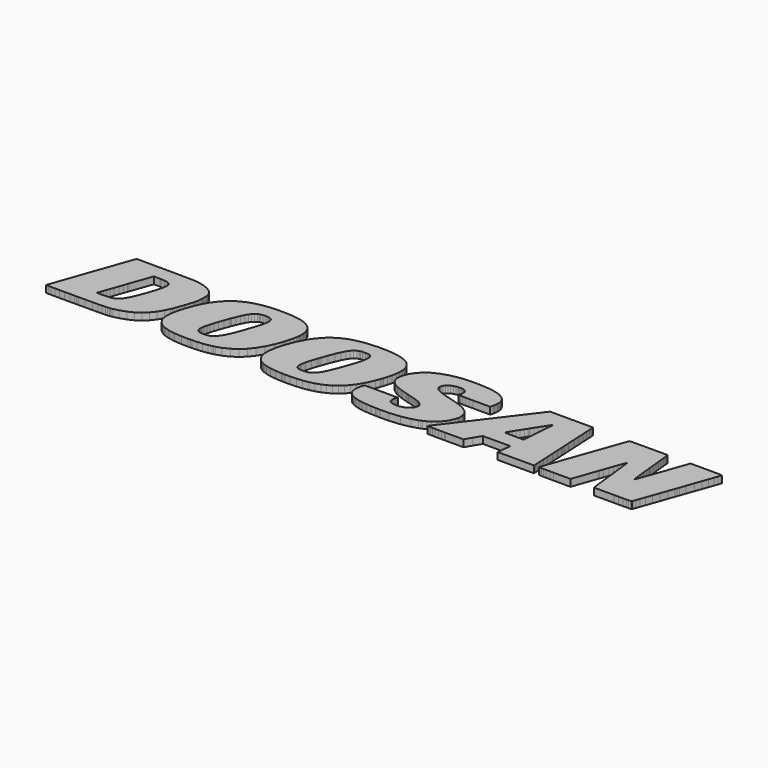
from build123d import *

# Parameters (mm, degrees)
F1_DEPTH = 6.35


with BuildPart() as f1:
    # F0 (on Top) → F1 (new body)
    with BuildSketch(Plane.XY):
        Polygon((-101.053138, 34.34461), (-105.606088, 35.721544), (-110.948978, 36.652962), (-111.431324, 36.712144), (-112.883696, 36.837874), (-115.34648, 36.992052), (-118.16715, 37.11194), (-121.175272, 37.19195), (-124.202952, 37.229034), (-127.077724, 37.219382), (-129.631186, 37.15893), (-131.178808, 37.084508), (-131.69265, 37.041582), (-133.668516, 36.888674), (-139.570968, 36.092384), (-146.629374, 34.511488), (-152.928066, 32.264096), (-158.525718, 29.312362), (-163.485322, 25.617678), (-167.863266, 21.143468), (-171.722034, 15.850362), (-174.355252, 11.280902), (-175.118522, 9.70153), (-175.667162, 8.572754), (-177.19548, 5.126228), (-178.989736, 0.553974), (-180.48478, -3.935476), (-181.658768, -8.26262), (-182.495444, -12.348464), (-182.973472, -16.114776), (-183.072786, -19.479895), (-182.911496, -21.655837), (-182.775352, -22.365513), (-182.59044, -23.342575), (-181.58333, -26.188213), (-179.534058, -29.414191), (-176.586388, -32.062776), (-172.6946, -34.153272), (-167.813736, -35.700792), (-161.900616, -36.72746), (-154.90698, -37.24971), (-148.820378, -37.333784), (-146.791934, -37.288292), (-145.329656, -37.252504), (-140.942314, -37.065052), (-136.160256, -36.670945), (-131.914646, -36.037037), (-128.724406, -35.365944), (-127.670052, -35.101352), (-126.10338, -34.711361), (-121.499122, -33.152817), (-115.923822, -30.508372), (-110.905036, -27.126641), (-106.402886, -22.965004), (-102.379018, -17.984724), (-98.7933, -12.141962), (-95.607378, -5.396484), (-93.41485, 0.347218), (-92.780866, 2.293112), (-92.461334, 3.292094), (-91.573858, 6.310122), (-90.682318, 9.873488), (-90.082878, 13.113512), (-89.80043, 15.395702), (-89.746328, 16.157702), (-89.669366, 17.21866), (-89.776808, 20.425156), (-90.534744, 24.18334), (-92.031312, 27.44216), (-94.276164, 30.216094), (-97.280222, 32.513524), align=None)
        Polygon((-133.019546, 23.873206), (-132.574538, 24.024844), (-132.026152, 24.210772), (-130.295396, 24.520906), (-127.67564, 24.68626), (-125.169168, 24.520906), (-123.679458, 24.223218), (-123.226068, 24.024844), (-122.874786, 23.863808), (-121.889266, 23.225506), (-121.047256, 22.204172), (-120.617234, 20.805902), (-120.504458, 19.355816), (-120.510046, 18.873724), (-120.523762, 18.278602), (-120.7262, 16.49095), (-121.333768, 13.569696), (-122.438922, 9.70153), (-123.704096, 5.78104), (-124.142246, 4.480052), (-124.61494, 3.081274), (-126.061978, -1.106678), (-127.769366, -5.837428), (-129.304542, -9.80059), (-130.710178, -13.083032), (-132.023358, -15.775686), (-133.287008, -17.968214), (-134.539736, -19.747281), (-135.480806, -20.857947), (-135.819896, -21.202472), (-136.296908, -21.683396), (-137.851134, -23.003561), (-139.846558, -24.115649), (-142.165578, -24.677878), (-144.418812, -24.834952), (-145.168366, -24.834952), (-146.021552, -24.829465), (-148.577808, -24.541455), (-150.74265, -23.596117), (-151.877014, -21.823959), (-152.193752, -19.741744), (-152.188164, -19.049975), (-152.185624, -18.636488), (-152.077928, -17.399), (-151.76373, -15.410688), (-151.2316, -13.045948), (-150.473918, -10.264902), (-149.476206, -7.026656), (-148.225002, -3.293618), (-146.711924, 0.977138), (-145.375122, 4.612132), (-144.921986, 5.820918), (-144.523714, 6.88213), (-143.27378, 10.040366), (-141.73835, 13.581888), (-140.275056, 16.50746), (-138.841734, 18.879312), (-137.396474, 20.754594), (-135.898636, 22.197568), (-134.305294, 23.268178), align=None, mode=Mode.SUBTRACT)
        Polygon((-23.91283, 36.963096), (-25.01265, 37.041582), (-27.54249, 37.225224), (-35.16503, 37.307774), (-44.874688, 36.654232), (-53.737002, 35.127438), (-59.506866, 33.512506), (-61.347858, 32.77235), (-62.44209, 32.335724), (-65.622678, 30.770322), (-69.588634, 28.295346), (-73.259696, 25.33269), (-76.65085, 21.86813), (-79.77378, 17.886934), (-82.64144, 13.372338), (-85.2678, 8.30834), (-87.11438, 4.106672), (-87.665814, 2.681732), (-88.174068, 1.36144), (-89.563194, -2.654046), (-90.992452, -7.59841), (-91.952572, -12.141962), (-92.44203, -16.274542), (-92.461334, -19.9898), (-92.007944, -23.277805), (-91.079066, -26.130326), (-90.09253, -27.985161), (-89.676224, -28.539135), (-89.36228, -28.953917), (-88.324436, -30.133544), (-86.841584, -31.475756), (-85.127338, -32.647077), (-83.603084, -33.479384), (-83.07959, -33.726095), (-82.126074, -34.167064), (-79.144114, -35.239147), (-74.684636, -36.286491), (-69.219318, -36.943817), (-64.006222, -37.241455), (-62.265814, -37.288292), (-60.730384, -37.3269), (-56.119522, -37.32276), (-50.380392, -37.088496), (-45.030644, -36.573104), (-40.053006, -35.766934), (-35.42919, -34.654896), (-31.13913, -33.227239), (-27.16657, -31.471591), (-23.49119, -29.37698), (-20.10029, -26.93096), (-16.96847, -24.121161), (-14.08049, -20.936534), (-11.42111, -17.36471), (-8.97001, -13.39596), (-6.70941, -9.015222), (-4.61899, -4.21259), (-3.13309, -0.296418), (-2.68097, 1.02235), (-2.30759, 2.116582), (-1.28397, 5.431028), (-0.23241, 9.50849), (0.46863, 13.262356), (0.81407, 16.702024), (0.79629, 19.839432), (0.41021, 22.683978), (-0.34925, 25.243028), (-1.49225, 27.526234), (-3.01879, 29.54528), (-4.93649, 31.307532), (-7.25551, 32.823658), (-9.97331, 34.103818), (-13.10513, 35.155124), (-16.65097, 35.99053), (-20.61591, 36.615878), align=None)
        Polygon((-42.009822, 24.05253), (-41.451784, 24.23541), (-40.955722, 24.39289), (-39.368222, 24.55799), (-36.63315, 24.588216), (-33.99663, 24.355552), (-32.57931, 24.077168), (-32.20847, 23.882858), (-31.86811, 23.703534), (-30.98927, 22.894544), (-30.25013, 21.388578), (-30.00883, 19.249644), (-30.28823, 16.364204), (-31.10103, 12.61745), (-32.46755, 7.894828), (-34.40811, 2.080768), (-36.29025, -3.188716), (-36.93541, -4.938776), (-37.596064, -6.713728), (-39.734744, -11.979148), (-42.223436, -17.082262), (-44.600622, -20.585125), (-46.378368, -22.365513), (-47.060358, -22.824415), (-47.453296, -23.087609), (-48.698912, -23.772495), (-50.368962, -24.380241), (-52.290218, -24.70404), (-54.084474, -24.800535), (-54.680866, -24.800535), (-55.39359, -24.803278), (-57.532016, -24.596598), (-59.635136, -23.8855), (-61.007752, -22.548825), (-61.662056, -20.473492), (-61.613796, -17.54378), (-60.877958, -13.642594), (-59.466734, -8.656828), (-57.937146, -4.007104), (-57.396888, -2.469388), (-56.79059, -0.742696), (-54.920896, 4.419346), (-52.773834, 9.974072), (-50.858166, 14.35481), (-49.081944, 17.72285), (-47.347124, 20.236434), (-45.560996, 22.052788), (-43.627802, 23.333202), align=None, mode=Mode.SUBTRACT)
        Polygon((68.18757, 36.367974), (67.06235, 36.5125), (66.52387, 36.585652), (64.90081, 36.745418), (62.25159, 36.938458), (59.27725, 37.087302), (56.14035, 37.187632), (53.00091, 37.237416), (50.02149, 37.231828), (47.36465, 37.168328), (45.73143, 37.087302), (45.19041, 37.041582), (43.23207, 36.879022), (37.38753, 36.078668), (30.41015, 34.564066), (24.26081, 32.498284), (18.94459, 29.88564), (14.45895, 26.724356), (10.81151, 23.01748), (7.99973, 18.766028), (6.40969, 15.205456), (6.03377, 13.970762), (5.77723, 13.15339), (5.33781, 10.597134), (5.41401, 7.492238), (6.25983, 4.69773), (7.38759, 2.80035), (7.86765, 2.257044), (8.47217, 1.568196), (10.63371, -0.19812), (14.52499, -2.389378), (19.90979, -4.488434), (25.33777, -6.166612), (27.16403, -6.666738), (28.10891, -6.924548), (30.94609, -7.718298), (34.01695, -8.625078), (36.48075, -9.424416), (38.42893, -10.158984), (39.96055, -10.867136), (41.16705, -11.587988), (42.15003, -12.362434), (42.80027, -13.001752), (43.00347, -13.229082), (43.42511, -13.714222), (44.06265, -15.722092), (43.50893, -18.497296), (41.51757, -21.161146), (39.14775, -22.912603), (38.27653, -23.319156), (37.76091, -23.558906), (36.14801, -24.121161), (33.90519, -24.632387), (31.64967, -24.859767), (29.48305, -24.812904), (27.50185, -24.498732), (25.81275, -23.928222), (24.51227, -23.108285), (23.83917, -22.343466), (23.70709, -22.048572), (23.58263, -21.779865), (23.39975, -20.888249), (23.32355, -19.41101), (23.46325, -17.841468), (23.69185, -16.7513), (23.81123, -16.404082), (23.88235, -16.209772), (24.18207, -15.380208), (24.34209, -15.009622), (24.34209, -14.88694), (24.34209, -14.880082), (23.14575, -14.860778), (19.89963, -14.83868), (15.09903, -14.82217), (10.70483, -14.816582), (9.24179, -14.816582), (-5.85597, -14.816582), (-6.73989, -17.532858), (-6.89737, -18.052288), (-7.40029, -20.377023), (-7.58571, -22.687991), (-7.58571, -23.459694), (-7.58571, -24.064646), (-7.45363, -25.882295), (-6.97357, -27.741245), (-6.02361, -29.327373), (-4.89077, -30.562093), (-4.47929, -30.938292), (-4.04241, -31.340679), (-2.59969, -32.411441), (-0.36703, -33.666836), (2.27203, -34.714104), (5.36575, -35.568509), (8.96239, -36.239628), (13.11529, -36.742599), (17.87017, -37.087124), (21.92909, -37.256618), (23.28291, -37.288292), (26.02865, -37.348947), (34.27603, -37.189105), (43.79595, -36.344327), (52.12461, -34.718269), (57.74309, -33.009484), (59.54903, -32.279133), (60.43549, -31.918097), (63.01867, -30.64891), (66.20129, -28.718281), (69.05879, -26.514831), (71.57085, -24.067414), (73.70445, -21.405037), (75.44435, -18.556732), (76.75245, -15.55115), (77.45603, -13.211302), (77.61097, -12.417552), (77.81417, -11.37158), (77.79131, -8.106918), (76.54163, -4.29387), (73.87717, -0.996188), (70.89267, 1.20015), (69.81317, 1.76403), (69.45503, 1.947418), (68.37553, 2.481834), (66.97853, 3.123946), (65.51803, 3.726434), (63.88481, 4.327144), (61.96965, 4.962144), (59.66841, 5.66928), (56.87441, 6.483604), (54.32933, 7.20725), (53.48097, 7.444232), (52.37607, 7.751572), (49.07153, 8.717534), (45.50537, 9.86409), (42.70121, 10.929112), (40.58031, 11.956034), (39.06901, 12.986766), (38.08603, 14.067028), (37.55263, 15.238222), (37.39515, 16.218408), (37.39515, 16.544544), (37.39515, 16.931894), (37.60851, 18.09369), (38.22827, 19.544538), (39.21887, 20.868894), (40.53713, 22.040596), (42.15003, 23.029672), (44.01693, 23.808182), (46.09973, 24.34971), (47.79645, 24.592534), (48.36541, 24.624284), (48.95977, 24.65451), (50.75047, 24.619966), (52.67071, 24.325072), (54.18963, 23.711916), (55.12689, 23.032466), (55.38597, 22.754082), (55.62727, 22.499066), (56.11241, 21.500084), (56.38673, 19.835622), (56.20385, 17.894046), (55.76951, 16.307816), (55.56123, 15.804896), (55.54345, 15.7607), (55.54345, 15.606268), (55.76697, 15.45336), (56.36895, 15.34033), (57.49163, 15.263368), (59.27471, 15.213584), (61.85281, 15.184628), (65.36563, 15.172182), (68.80987, 15.169388), (69.95541, 15.169388), (84.59597, 15.169388), (85.23097, 17.745202), (85.31225, 18.041366), (85.49767, 18.942558), (85.70595, 20.31238), (85.83295, 21.694394), (85.87359, 22.623272), (85.86597, 22.930612), (85.86343, 23.604474), (85.56879, 25.62479), (84.70773, 28.019756), (83.27009, 30.125416), (81.24063, 31.94431), (78.61173, 33.487868), (75.38085, 34.758122), (71.53529, 35.764216), align=None)
        Polygon((-196.012562, 34.90976), (-197.555866, 35.171634), (-197.84949, 35.224212), (-198.734172, 35.339782), (-200.274936, 35.476434), (-202.369674, 35.585146), (-205.20279, 35.67049), (-208.967578, 35.738054), (-213.848696, 35.791902), (-220.036136, 35.837368), (-225.799142, 35.869118), (-227.718366, 35.877246), (-254.52959, 36.019232), (-267.159308, 0.282702), (-267.791819, -1.513078), (-269.686608, -6.89991), (-272.044439, -13.614908), (-274.183145, -19.711441), (-276.049029, -25.041682), (-277.592434, -29.458285), (-278.758269, -32.81106), (-279.496876, -34.953905), (-279.753212, -35.54095), (-279.753212, -35.736632), (-279.753212, -35.747655), (-279.190933, -35.784866), (-277.575899, -35.827589), (-275.022386, -35.860634), (-271.644821, -35.885476), (-267.55344, -35.900614), (-262.861298, -35.903357), (-257.684016, -35.896499), (-253.519686, -35.882682), (-252.130306, -35.877195), (-250.093734, -35.867569), (-243.983256, -35.837216), (-237.513622, -35.795864), (-232.494836, -35.746284), (-228.698044, -35.682885), (-225.896678, -35.598837), (-223.863916, -35.489972), (-222.371666, -35.349409), (-221.485714, -35.224009), (-221.19209, -35.171634), (-219.585286, -34.879509), (-214.811864, -33.730209), (-209.165952, -31.832652), (-204.18425, -29.418331), (-199.796908, -26.430757), (-195.931536, -22.812019), (-192.51803, -18.502884), (-189.484762, -13.44549), (-187.376562, -9.075674), (-186.760358, -7.584694), (-186.335924, -6.558026), (-185.153808, -3.439668), (-183.426862, 1.412494), (-181.86019, 6.158484), (-180.983636, 9.020556), (-180.728874, 9.983978), (-180.595016, 10.489438), (-180.238146, 12.017756), (-179.944522, 13.81633), (-179.797202, 15.833852), (-179.746402, 17.84985), (-179.740814, 18.520918), (-179.740814, 19.238722), (-179.758594, 21.388578), (-179.882546, 23.120858), (-180.217572, 24.370538), (-180.698394, 25.439878), (-180.869336, 25.788874), (-181.320186, 26.6954), (-183.233822, 29.135832), (-186.713622, 31.763716), (-191.441578, 33.751012), align=None)
        Polygon((-235.450634, 1.774952), (-235.090716, 2.78638), (-228.071172, 22.64791), (-222.250508, 22.471634), (-221.264988, 22.445472), (-218.30919, 22.291294), (-215.71585, 21.94814), (-214.035894, 21.345906), (-213.094824, 20.666456), (-212.83168, 20.390866), (-212.629242, 20.181316), (-212.164422, 19.409918), (-211.782914, 18.099278), (-211.690458, 16.413734), (-211.897214, 14.305534), (-212.407246, 11.72845), (-213.228428, 8.63346), (-214.367872, 4.97586), (-215.453722, 1.769618), (-215.83015, 0.705612), (-216.306908, -0.646176), (-217.786966, -4.685284), (-219.542614, -9.127998), (-221.158816, -12.723368), (-222.69704, -15.574518), (-224.215452, -17.783556), (-225.77679, -19.455105), (-227.441506, -20.688452), (-228.798628, -21.402294), (-229.270052, -21.589695), (-229.578662, -21.708212), (-230.529638, -21.996222), (-232.031794, -22.247022), (-234.261406, -22.397237), (-236.8423, -22.485426), (-237.702344, -22.507473), (-244.122702, -22.648012), (-243.134642, -19.861632), (-243.04625, -19.621856), (-242.787424, -18.901131), (-242.186714, -17.21993), (-241.365278, -14.911832), (-240.357914, -12.06881), (-239.193324, -8.784844), (-237.906306, -5.15239), (-236.528356, -1.26365), align=None, mode=Mode.SUBTRACT)
        Polygon((161.92373, 34.399982), (161.92373, 34.642552), (161.92373, 35.983418), (122.55373, 35.983418), (95.42653, 0.282702), (94.06001, -1.50876), (89.96045, -6.88721), (84.86267, -13.588746), (80.24241, -19.675577), (76.20635, -24.997588), (72.86879, -29.408704), (70.34403, -32.761453), (68.73367, -34.908439), (68.17487, -35.656698), (68.15709, -35.700792), (68.46697, -35.753192), (69.40931, -35.80417), (70.91553, -35.852379), (72.91959, -35.895102), (75.35037, -35.930942), (78.14691, -35.958501), (81.24063, -35.976433), (83.72729, -35.983316), (84.56041, -35.983316), (101.07041, -35.947452), (104.88041, -29.633316), (108.69041, -23.283316), (133.77291, -23.283316), (133.56209, -24.624132), (133.53415, -24.800535), (133.45795, -25.459233), (133.31825, -26.783538), (133.15823, -28.413761), (133.03631, -29.724248), (132.99567, -30.162475), (132.95757, -30.58828), (132.83565, -31.867094), (132.67563, -33.381569), (132.53339, -34.537726), (132.45719, -35.065513), (132.43179, -35.171634), (132.29209, -35.983316), (165.45179, -35.983316), (165.45179, -35.171634), (165.45179, -34.956648), (165.41623, -34.313114), (165.31463, -32.178523), (165.15715, -28.909823), (164.94125, -24.648947), (164.67963, -19.537782), (164.37991, -13.71981), (164.04717, -7.335266), (163.77793, -2.229612), (163.68903, -0.529082), (163.60013, 1.175512), (163.33851, 6.288024), (163.01085, 12.701524), (162.71113, 18.56486), (162.44697, 23.738078), (162.23107, 28.076144), (162.06597, 31.434278), (161.95929, 33.672272), align=None)
        Polygon((126.73457, 5.531612), (127.21209, 6.279896), (127.68707, 7.02818), (129.11201, 9.269984), (130.90017, 12.059412), (132.53339, 14.587982), (133.97357, 16.792956), (135.18007, 18.614644), (136.11225, 19.992594), (136.72439, 20.86356), (136.91997, 21.166582), (136.98347, 21.166582), (137.02919, 21.166582), (137.17397, 20.695412), (137.14857, 19.747484), (137.12317, 19.508978), (137.09523, 19.271996), (136.97331, 17.767046), (136.69391, 14.297152), (136.33323, 9.598152), (136.02589, 5.521706), (135.92429, 4.16306), (134.97179, -9.525), (126.18847, -9.525), (125.09881, -9.525), (121.83237, -9.501632), (119.17045, -9.42721), (117.86489, -9.286494), (117.57025, -9.08812), (117.58041, -9.066022), (117.60835, -9.004046), (117.80901, -8.670544), (118.39575, -7.714234), (119.29745, -6.259068), (120.47601, -4.369816), (121.89841, -2.107184), (123.51893, 0.464312), (125.30201, 3.281172), align=None, mode=Mode.SUBTRACT)
        Polygon((230.13797, 34.319972), (230.11765, 34.50209), (229.90429, 35.983418), (212.54847, 35.983418), (211.29625, 35.983418), (207.53451, 35.980624), (203.55687, 35.966908), (200.49617, 35.939222), (198.24573, 35.89655), (196.68363, 35.83305), (195.69557, 35.746182), (195.16725, 35.633406), (194.99453, 35.536632), (194.97929, 35.49015), (194.95135, 35.419538), (194.68719, 34.672778), (193.92519, 32.530034), (192.74409, 29.20619), (191.19469, 24.85009), (189.33541, 19.603974), (187.21197, 13.617956), (184.87517, 7.033768), (183.00573, 1.758188), (182.38597, 0), (181.76113, -1.756918), (179.89169, -7.032244), (177.55997, -13.616432), (175.43653, -19.602552), (173.57217, -24.848744), (172.02785, -29.204742), (170.84675, -32.528561), (170.08475, -34.671406), (169.82059, -35.418293), (169.79265, -35.489972), (169.77995, -35.51616), (169.85107, -35.631907), (170.20667, -35.744887), (170.96359, -35.831704), (172.21073, -35.895102), (174.05731, -35.937825), (176.60239, -35.965384), (179.94503, -35.979176), (183.12257, -35.983316), (184.18429, -35.983316), (198.78929, -35.983316), (206.48041, -14.147038), (206.87157, -13.048742), (208.04251, -9.756394), (209.51063, -5.641594), (210.85175, -1.89484), (212.03285, 1.39446), (213.01837, 4.134104), (213.77529, 6.23443), (214.28075, 7.602728), (214.45347, 8.079232), (214.48903, 8.149844), (214.54745, 8.232394), (214.78875, 8.436356), (214.95385, 8.200644), (214.98179, 8.11403), (214.99957, 8.043672), (215.05545, 7.586218), (215.21801, 6.272784), (215.46185, 4.26085), (215.77173, 1.637284), (216.14003, -1.511554), (216.55659, -5.095748), (217.00617, -9.031732), (217.36685, -12.179046), (217.48623, -13.229082), (217.60307, -14.277848), (217.95359, -17.423892), (218.40063, -21.377504), (218.80957, -25.000356), (219.17787, -28.204262), (219.48775, -30.896966), (219.73413, -32.992949), (219.90685, -34.399931), (219.96273, -34.889135), (219.99067, -35.031096), (220.20403, -35.983316), (237.24235, -35.983316), (238.56569, -35.983316), (242.54079, -35.980548), (246.62003, -35.968127), (249.64009, -35.939197), (251.75845, -35.889616), (253.14529, -35.812425), (253.96063, -35.699421), (254.36703, -35.546462), (254.50419, -35.404527), (254.52959, -35.348012), (254.55245, -35.268129), (254.82169, -34.518473), (255.58369, -32.367322), (256.76479, -29.037991), (258.31165, -24.676506), (260.17347, -19.428917), (262.29691, -13.439902), (264.62863, -6.856984), (266.49807, -1.581912), (267.12291, 0.17653), (267.74267, 1.934718), (269.61465, 7.20725), (271.94129, 13.781532), (274.05965, 19.756882), (275.91131, 24.986488), (277.44547, 29.326078), (278.61641, 32.631888), (279.36825, 34.758122), (279.62987, 35.499802), (279.64765, 35.560254), (279.65019, 35.574224), (279.54097, 35.67049), (279.07615, 35.760152), (278.18715, 35.834574), (276.81301, 35.890962), (274.89785, 35.933634), (272.37309, 35.96259), (269.18031, 35.9791), (266.23391, 35.983418), (265.25347, 35.983418), (250.64847, 35.983418), (242.85067, 13.86459), (242.45697, 12.752324), (241.27079, 9.417558), (239.78489, 5.26288), (238.42853, 1.493774), (237.22965, -1.79832), (236.22381, -4.5212), (235.44403, -6.584188), (234.92587, -7.894828), (234.74807, -8.351012), (234.70235, -8.36041), (234.60837, -7.962138), (234.43057, -6.77291), (234.19181, -4.8768), (233.89209, -2.358898), (233.54665, 0.697484), (233.16565, 4.205732), (232.75925, 8.08228), (232.44175, 11.202162), (232.34015, 12.241022), (232.23347, 13.292582), (231.92359, 16.445484), (231.52735, 20.42414), (231.16667, 24.085296), (230.84409, 27.340306), (230.56723, 30.100524), (230.34879, 32.273494), (230.19385, 33.771332), align=None)
    extrude(amount=F1_DEPTH)


solid = f1.part
